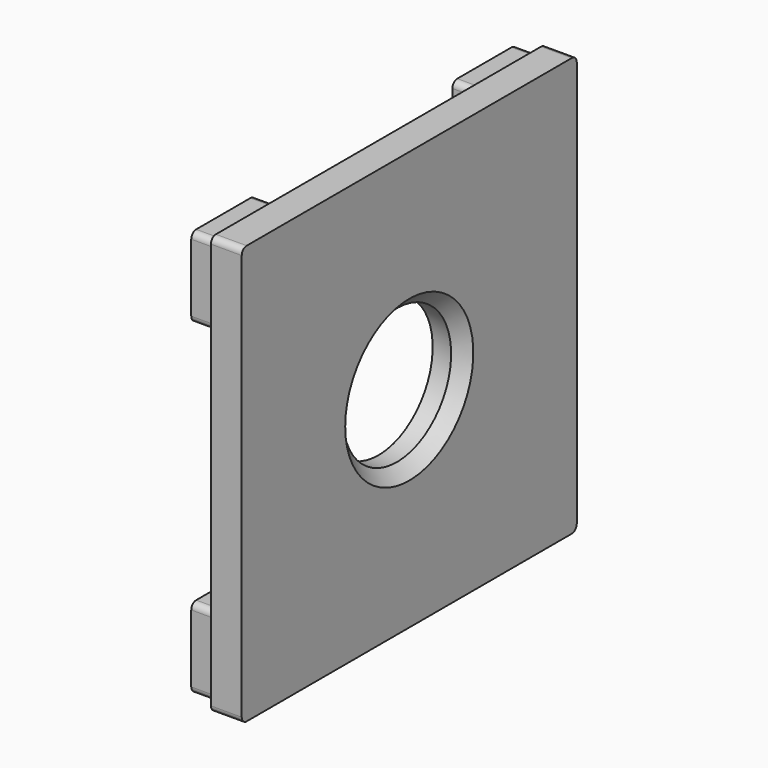
from build123d import *

# Parameters (mm, degrees)
SKETCH074_R             = 5.5
PAD033_DEPTH            = 2.5
POCKET031_DEPTH         = 2.25
SKETCH075_R             = 1.15
POCKET030_DEPTH         = 2
SKETCH072_R             = 1.15
PAD034_DEPTH            = 2
POCKET032_DEPTH         = 2
CHAMFER008_SIZE         = 1
BODY005_PLACEMENT_ANGLE = 180


with BuildPart() as part:
    # Sketch074 → Pad033 (new body)
    with BuildSketch(Plane.YZ):
        with BuildLine():
            Line((16.5, -17), (-16.5, -17))
            ThreePointArc((-17, -16.5), (-16.8535533906, -16.8535533906), (-16.5, -17))
            Line((-17, -16.5), (-17, 16.5))
            ThreePointArc((-16.5, 17), (-16.8535533906, 16.8535533906), (-17, 16.5))
            Line((-16.5, 17), (16.5, 17))
            ThreePointArc((17, 16.5), (16.8535533906, 16.8535533906), (16.5, 17))
            Line((17, 16.5), (17, -16.5))
            ThreePointArc((16.5, -17), (16.8535533906, -16.8535533906), (17, -16.5))
        make_face()
        Circle(SKETCH074_R, mode=Mode.SUBTRACT)
    extrude(amount=PAD033_DEPTH)

    # Sketch073 → Pocket031 (cut)
    with BuildSketch(Plane(origin=(0, 0, 0), x_dir=(0, 0.7071067812, 0.7071067812), z_dir=(1, 0, 0))):
        with BuildLine():
            ThreePointArc((-6.75, 3), (-7.75, 4), (-8.75, 3))
            Line((-8.75, 3), (-8.75, -3))
            ThreePointArc((-8.75, -3), (-7.75, -4), (-6.75, -3))
            Line((-6.75, -3), (-6.75, 3))
        make_face()
        with BuildLine():
            ThreePointArc((8.75, 3), (7.75, 4), (6.75, 3))
            Line((6.75, -3), (6.75, 3))
            ThreePointArc((6.75, -3), (7.75, -4), (8.75, -3))
            Line((8.75, 3), (8.75, -3))
        make_face()
        with BuildLine():
            ThreePointArc((3, -8.75), (4, -7.75), (3, -6.75))
            Line((-3, -6.75), (3, -6.75))
            ThreePointArc((-3, -6.75), (-4, -7.75), (-3, -8.75))
            Line((3, -8.75), (-3, -8.75))
        make_face()
        with BuildLine():
            ThreePointArc((3, 6.75), (4, 7.75), (3, 8.75))
            Line((3, 8.75), (-3, 8.75))
            ThreePointArc((-3, 8.75), (-4, 7.75), (-3, 6.75))
            Line((-3, 6.75), (3, 6.75))
        make_face()
    extrude(amount=POCKET031_DEPTH, mode=Mode.SUBTRACT)

    # Sketch075 → Pocket030 (cut)
    with BuildSketch(Plane.YZ):
        with Locations((-13.6, -13.6)):
            Circle(SKETCH075_R)
        with Locations((13.6, -13.6)):
            Circle(SKETCH075_R)
        with Locations((-13.6, 13.6)):
            Circle(SKETCH075_R)
        with Locations((13.6, 13.6)):
            Circle(SKETCH075_R)
    extrude(amount=POCKET030_DEPTH, mode=Mode.SUBTRACT)

    # Sketch072 → Pad034 (join)
    with BuildSketch(Plane.YZ):
        with BuildLine():
            Line((12.9979202711, -10), (16, -10))
            ThreePointArc((16.5, -10.5), (16.3535533906, -10.1464466094), (16, -10))
            Line((16.5, -10.5), (16.5, -16))
            ThreePointArc((16, -16.5), (16.3535533906, -16.3535533906), (16.5, -16))
            Line((16, -16.5), (10.5, -16.5))
            ThreePointArc((10, -16), (10.1464466094, -16.3535533906), (10.5, -16.5))
            Line((10, -16), (10, -12.9979202711))
            ThreePointArc((12.9979202711, -10), (11.0190602487, -11.0190602487), (10, -12.9979202711))
        make_face()
        with Locations((13.6, -13.6)):
            Circle(SKETCH072_R, mode=Mode.SUBTRACT)
        with BuildLine():
            Line((-12.9979202711, -10), (-16, -10))
            ThreePointArc((-16, -10), (-16.3535533906, -10.1464466094), (-16.5, -10.5))
            Line((-16.5, -10.5), (-16.5, -16))
            ThreePointArc((-16.5, -16), (-16.3535533906, -16.3535533906), (-16, -16.5))
            Line((-16, -16.5), (-10.5, -16.5))
            ThreePointArc((-10.5, -16.5), (-10.1464466094, -16.3535533906), (-10, -16))
            Line((-10, -16), (-10, -12.9979202711))
            ThreePointArc((-10, -12.9979202711), (-11.0190602487, -11.0190602487), (-12.9979202711, -10))
        make_face()
        with Locations((-13.6, -13.6)):
            Circle(SKETCH072_R, mode=Mode.SUBTRACT)
        with BuildLine():
            Line((12.9979202711, 10), (16, 10))
            ThreePointArc((16, 10), (16.3535533906, 10.1464466094), (16.5, 10.5))
            Line((16.5, 10.5), (16.5, 16))
            ThreePointArc((16.5, 16), (16.3535533906, 16.3535533906), (16, 16.5))
            Line((16, 16.5), (10.5, 16.5))
            ThreePointArc((10.5, 16.5), (10.1464466094, 16.3535533906), (10, 16))
            Line((10, 16), (10, 12.9979202711))
            ThreePointArc((10, 12.9979202711), (11.0190602487, 11.0190602487), (12.9979202711, 10))
        make_face()
        with Locations((13.6, 13.6)):
            Circle(SKETCH072_R, mode=Mode.SUBTRACT)
        with BuildLine():
            Line((-12.9979202711, 10), (-16, 10))
            ThreePointArc((-16.5, 10.5), (-16.3535533906, 10.1464466094), (-16, 10))
            Line((-16.5, 10.5), (-16.5, 16))
            ThreePointArc((-16, 16.5), (-16.3535533906, 16.3535533906), (-16.5, 16))
            Line((-16, 16.5), (-10.5, 16.5))
            ThreePointArc((-10, 16), (-10.1464466094, 16.3535533906), (-10.5, 16.5))
            Line((-10, 16), (-10, 12.9979202711))
            ThreePointArc((-12.9979202711, 10), (-11.0190602487, 11.0190602487), (-10, 12.9979202711))
        make_face()
        with Locations((-13.6, 13.6)):
            Circle(SKETCH072_R, mode=Mode.SUBTRACT)
    extrude(amount=-PAD034_DEPTH)

    # Sketch076 → Pocket032 (cut)
    with BuildSketch(Plane.YZ.offset(1)):
        Polygon((15.75, -14.8413030788), (15.75, -12.3586969212), (13.6, -11.1173938425), (11.45, -12.3586969212), (11.45, -14.8413030788), (13.6, -16.0826061575), align=None)
        Polygon((-15.75, -14.8250960742), (-15.75, -12.3424899167), (-13.6, -11.101186838), (-11.45, -12.3424899167), (-11.45, -14.8250960742), (-13.6, -16.066399153), align=None)
        Polygon((15.75, 14.8413030788), (15.75, 12.3586969212), (13.6, 11.1173938425), (11.45, 12.3586969212), (11.45, 14.8413030788), (13.6, 16.0826061575), align=None)
        Polygon((-15.75, 14.8250960742), (-15.75, 12.3424899167), (-13.6, 11.101186838), (-11.45, 12.3424899167), (-11.45, 14.8250960742), (-13.6, 16.066399153), align=None)
    extrude(amount=-POCKET032_DEPTH, mode=Mode.SUBTRACT)

    # Chamfer008
    chamfer008_edges = [part.edges().sort_by_distance(p)[0] for p in [
        (2.5, -5.5, 0),
    ]]
    chamfer(chamfer008_edges, length=CHAMFER008_SIZE)


with BuildPart() as part_1:
    # Body005 placement: moved
    add(part.part.moved(Location((2, 0, 0))).rotate(Axis((2, 0, 0), (1, 0, 0)), BODY005_PLACEMENT_ANGLE))


solid = part_1.part
